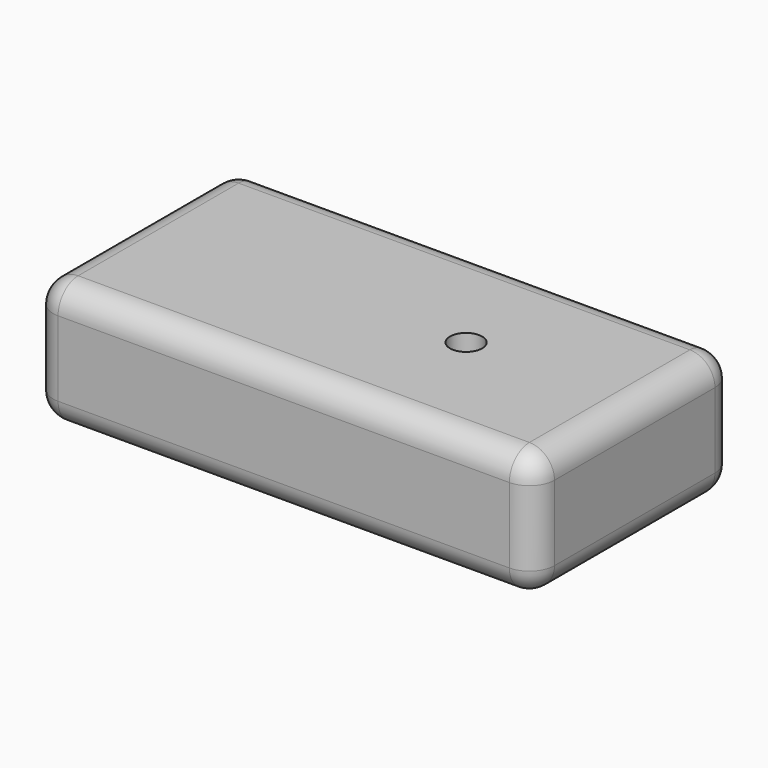
from build123d import *

# Parameters (mm, degrees)
F0_W     = 101.6
F0_H     = 50.8
F1_DEPTH = 25.4
F3_D     = 6.5278
F4_R     = 5.08
F5_R     = 5.08
F6_R     = 5.08


with BuildPart() as f1:
    # F0 (on Top) → F1 (new body)
    with BuildSketch(Plane.XY):
        with Locations((50.8, 25.4)):
            Rectangle(F0_W, F0_H)
    extrude(amount=F1_DEPTH)

    # F3 (through all)
    with Locations(Plane.XY.offset(25.4)):
        with Locations((67.2795102, 25.5870483816)):
            Hole(F3_D / 2)

    # F4
    f4_edges = [f1.edges().sort_by_distance(p)[0] for p in [
        (101.6, 50.8, 12.7),
        (101.6, 0, 12.7),
        (0, 0, 12.7),
        (0, 50.8, 12.7),
    ]]
    fillet(f4_edges, radius=F4_R)

    # F5
    f5_edges = [f1.edges().sort_by_distance(p)[0] for p in [
        (101.6, 25.4, 25.4),
    ]]
    fillet(f5_edges, radius=F5_R)

    # F6
    f6_edges = [f1.edges().sort_by_distance(p)[0] for p in [
        (101.6, 25.4, 0),
    ]]
    fillet(f6_edges, radius=F6_R)


solid = f1.part
